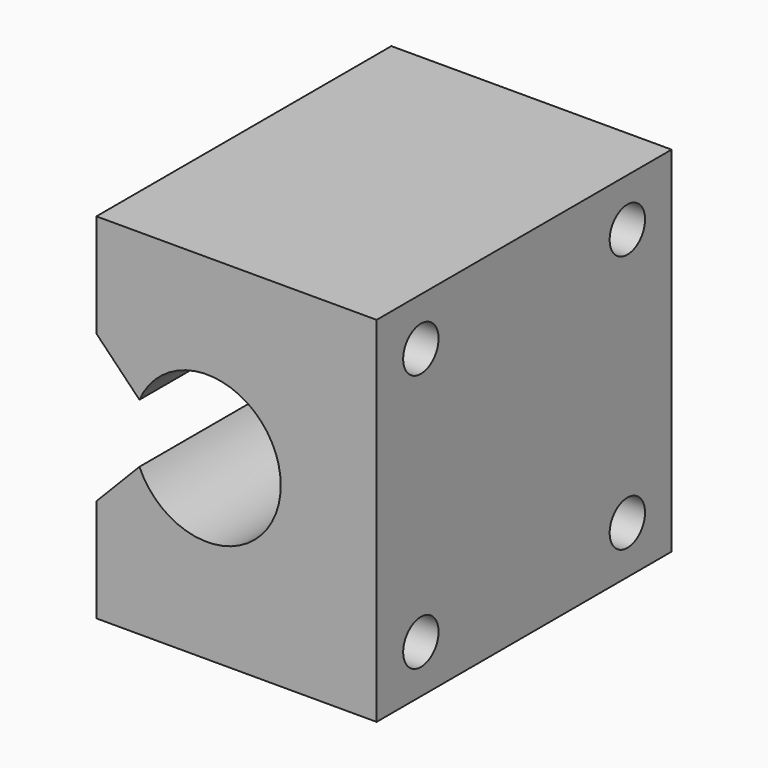
from build123d import *

# Parameters (mm, degrees)
F0_W     = 38
F0_H     = 48
F1_DEPTH = 25
F3_DEPTH = 50
F4_R     = 3
F5_DEPTH = 12


with BuildPart() as f1:
    # F0 (on Front) → F1 (new body, symmetric)
    with BuildSketch(Plane.XZ):
        with Locations((19, 0)):
            Rectangle(F0_W, F0_H)
    extrude(amount=F1_DEPTH, both=True)

    # F2 (on face) → F3 (cut)
    with BuildSketch(Plane.XZ.offset(25)):
        with BuildLine():
            Line((0, -10), (5.834849, -4))
            ThreePointArc((5.834849, -4), (25, 0), (5.834849, 4))
            Line((5.834849, 4), (0, 10))
            Line((0, 10), (0, -10))
        make_face()
    extrude(amount=-F3_DEPTH, mode=Mode.SUBTRACT)

    # F4 (on face) → F5 (cut)
    with BuildSketch(Plane.YZ.offset(38)):
        with Locations((-17.5, 17.5)):
            Circle(F4_R)
        with Locations((17.5, 17.5)):
            Circle(F4_R)
        with Locations((17.5, -17.5)):
            Circle(F4_R)
        with Locations((-17.5, -17.5)):
            Circle(F4_R)
    extrude(amount=-F5_DEPTH, mode=Mode.SUBTRACT)


solid = f1.part
